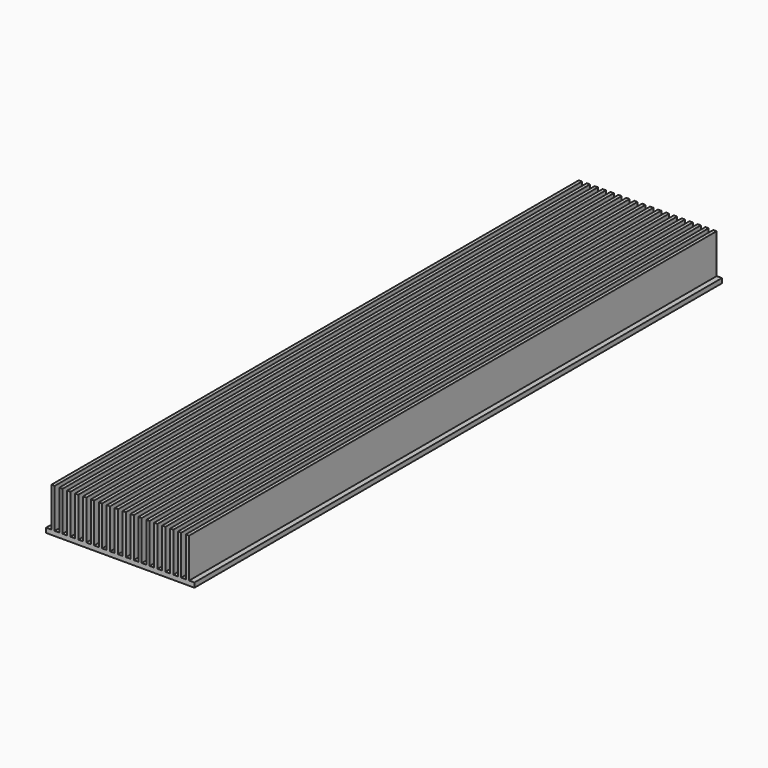
from build123d import *

# Parameters (mm, degrees)
F0_W     = 2.5
F0_H     = 30
F1_DEPTH = 500


with BuildPart() as f1:
    # F0 (on Front) → F1 (new body)
    with BuildSketch(Plane.XZ):
        Polygon((-56.25, 0), (0, 0), (56.25, 0), (56.25, 3.5), (52.25, 3.5), (52.25, 33.5), (49.75, 33.5), (49.75, 3.5), (46.25, 3.5), (43.75, 3.5), (40.25, 3.5), (37.75, 3.5), (34.25, 3.5), (31.75, 3.5), (28.25, 3.5), (25.75, 3.5), (22.25, 3.5), (19.75, 3.5), (16.25, 3.5), (13.75, 3.5), (10.25, 3.5), (7.75, 3.5), (4.25, 3.5), (1.75, 3.5), (-1.75, 3.5), (-4.25, 3.5), (-7.75, 3.5), (-10.25, 3.5), (-13.75, 3.5), (-16.25, 3.5), (-19.75, 3.5), (-22.25, 3.5), (-25.75, 3.5), (-28.25, 3.5), (-31.75, 3.5), (-34.25, 3.5), (-37.75, 3.5), (-40.25, 3.5), (-43.75, 3.5), (-46.25, 3.5), (-49.75, 3.5), (-52.25, 3.5), (-56.25, 3.5), align=None)
        with Locations((-51, 18.5)):
            Rectangle(F0_W, F0_H)
        with Locations((-45, 18.5)):
            Rectangle(F0_W, F0_H)
        with Locations((45, 18.5)):
            Rectangle(F0_W, F0_H)
        with Locations((-39, 18.5)):
            Rectangle(F0_W, F0_H)
        with Locations((39, 18.5)):
            Rectangle(F0_W, F0_H)
        with Locations((-33, 18.5)):
            Rectangle(F0_W, F0_H)
        with Locations((33, 18.5)):
            Rectangle(F0_W, F0_H)
        with Locations((-27, 18.5)):
            Rectangle(F0_W, F0_H)
        with Locations((27, 18.5)):
            Rectangle(F0_W, F0_H)
        with Locations((-21, 18.5)):
            Rectangle(F0_W, F0_H)
        with Locations((21, 18.5)):
            Rectangle(F0_W, F0_H)
        with Locations((-15, 18.5)):
            Rectangle(F0_W, F0_H)
        with Locations((15, 18.5)):
            Rectangle(F0_W, F0_H)
        with Locations((-9, 18.5)):
            Rectangle(F0_W, F0_H)
        with Locations((9, 18.5)):
            Rectangle(F0_W, F0_H)
        with Locations((-3, 18.5)):
            Rectangle(F0_W, F0_H)
        with Locations((3, 18.5)):
            Rectangle(F0_W, F0_H)
    extrude(amount=F1_DEPTH)


solid = f1.part
